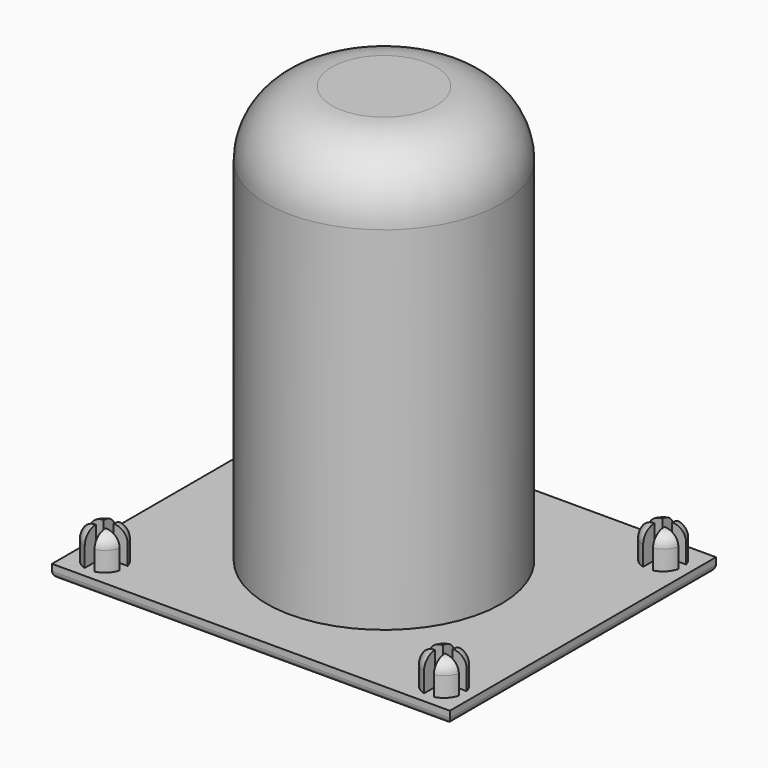
from build123d import *

# Parameters (mm, degrees)
SKETCH001_W                = 61
SKETCH001_H                = 51
PAD_DEPTH                  = 2
SKETCH002_R                = 3
PAD001_DEPTH               = 5
SKETCH002_MIRRORED_2_R     = 3
PAD001_MIRRORED_2_DEPTH    = 5
FILLET_R                   = 2
FILLET001_R                = 1
POCKET_DEPTH               = 5
POCKET_MIRRORED002_2_DEPTH = 5
SKETCH045_R                = 18
PAD014_DEPTH               = 66
SKETCH046_R                = 17
POCKET012_DEPTH            = 64
FILLET033_R                = 10
FILLET034_R                = 2


with BuildPart() as part:
    # Sketch001 → Pad (new body)
    with BuildSketch(Plane.XY):
        Rectangle(SKETCH001_W, SKETCH001_H)
    extrude(amount=PAD_DEPTH)

    # Sketch002 (on DatumPlane) → Pad001 (join)
    with BuildSketch(Plane.XY.offset(2)):
        with Locations((-26, 21)):
            Circle(SKETCH002_R)
    pad001 = extrude(amount=PAD001_DEPTH)

    # Sketch002 Mirrored 2 → Pad001 Mirrored 2 (add)
    with BuildSketch(Plane(origin=(0, 0, 2), x_dir=(-1, 0, 0), z_dir=(0, 0, -1))):
        with Locations((-26, 21)):
            Circle(SKETCH002_MIRRORED_2_R)
    pad001_mirrored_2 = extrude(amount=-PAD001_MIRRORED_2_DEPTH)

    # Mirrored001: Pad001, Pad001 Mirrored 2 across Sketch002 H_Axis
    add(pad001.mirror(Plane(origin=(0, 0, 2), x_dir=(0, 0, 1), z_dir=(0, 1, 0))))
    add(pad001_mirrored_2.mirror(Plane(origin=(0, 0, 2), x_dir=(0, 0, 1), z_dir=(0, 1, 0))))

    # Fillet
    fillet_edges = [part.edges().sort_by_distance(p)[0] for p in [
        (29, 21, 7),
        (29, -21, 7),
        (-29, -21, 7),
        (-29, 21, 7),
    ]]
    fillet(fillet_edges, radius=FILLET_R)

    # Fillet001
    fillet001_edges = [part.edges().sort_by_distance(p)[0] for p in [
        (0, 25.5, 0),
        (30.5, 0, 0),
        (0, -25.5, 0),
        (-30.5, 0, 0),
    ]]
    fillet(fillet001_edges, radius=FILLET001_R)

    # Sketch003 (on DatumPlane) → Pocket (cut)
    with BuildSketch(Plane.XY.offset(7)):
        Polygon((-29.265642, -20.28286), (-26.765642, -20.28286), (-26.765642, -17.78286), (-25.265642, -17.78286), (-25.265642, -20.28286), (-22.765642, -20.28286), (-22.765642, -21.78286), (-25.265642, -21.78286), (-25.265642, -24.28286), (-26.765642, -24.28286), (-26.765642, -21.78286), (-29.265642, -21.78286), align=None)
    pocket = extrude(amount=-POCKET_DEPTH, mode=Mode.SUBTRACT)

    # Sketch003 Mirrored002 2 → Pocket Mirrored002 2 (cut)
    with BuildSketch(Plane(origin=(0, 0, 7), x_dir=(-1, 0, 0), z_dir=(0, 0, -1))):
        Polygon((-29.265642, -20.28286), (-26.765642, -20.28286), (-26.765642, -17.78286), (-25.265642, -17.78286), (-25.265642, -20.28286), (-22.765642, -20.28286), (-22.765642, -21.78286), (-25.265642, -21.78286), (-25.265642, -24.28286), (-26.765642, -24.28286), (-26.765642, -21.78286), (-29.265642, -21.78286), align=None)
    pocket_mirrored002_2 = extrude(amount=POCKET_MIRRORED002_2_DEPTH, mode=Mode.SUBTRACT)

    # Mirrored003: Pocket, Pocket Mirrored002 2 across Sketch003 H_Axis
    add(pocket.mirror(Plane(origin=(0, 0, 7), x_dir=(0, 0, 1), z_dir=(0, 1, 0))), mode=Mode.SUBTRACT)
    add(pocket_mirrored002_2.mirror(Plane(origin=(0, 0, 7), x_dir=(0, 0, 1), z_dir=(0, 1, 0))), mode=Mode.SUBTRACT)


with BuildPart() as part_1:
    # Body placement: moved
    add(part.part.moved(Location((0, -65, 0))))


with BuildPart() as part_2:
    # Clone005 placement: moved
    add(part_1.part.moved(Location((0, 65, 0))))

    # Sketch045 (on DatumPlane) → Pad014 (new body)
    with BuildSketch(Plane(origin=(0, 0, 0), x_dir=(1, 0, 0), z_dir=(0, 0, -1))):
        Circle(SKETCH045_R)
    extrude(amount=-PAD014_DEPTH)

    # Sketch046 (on DatumPlane) → Pocket012 (cut)
    with BuildSketch(Plane(origin=(0, 0, 0), x_dir=(1, 0, 0), z_dir=(0, 0, -1))):
        Circle(SKETCH046_R)
    extrude(amount=-POCKET012_DEPTH, mode=Mode.SUBTRACT)

    # Fillet033
    fillet033_edges = [part_2.edges().sort_by_distance(p)[0] for p in [
        (-17, 0, 64),
        (-18, 0, 66),
    ]]
    fillet(fillet033_edges, radius=FILLET033_R)

    # Fillet034
    fillet034_edges = [part_2.edges().sort_by_distance(p)[0] for p in [
        (-17, 0, 0),
    ]]
    fillet(fillet034_edges, radius=FILLET034_R)


with BuildPart() as part_3:
    # Body012 placement: moved
    add(part_2.part.moved(Location((74, -66, 0))))


solid = part_3.part
